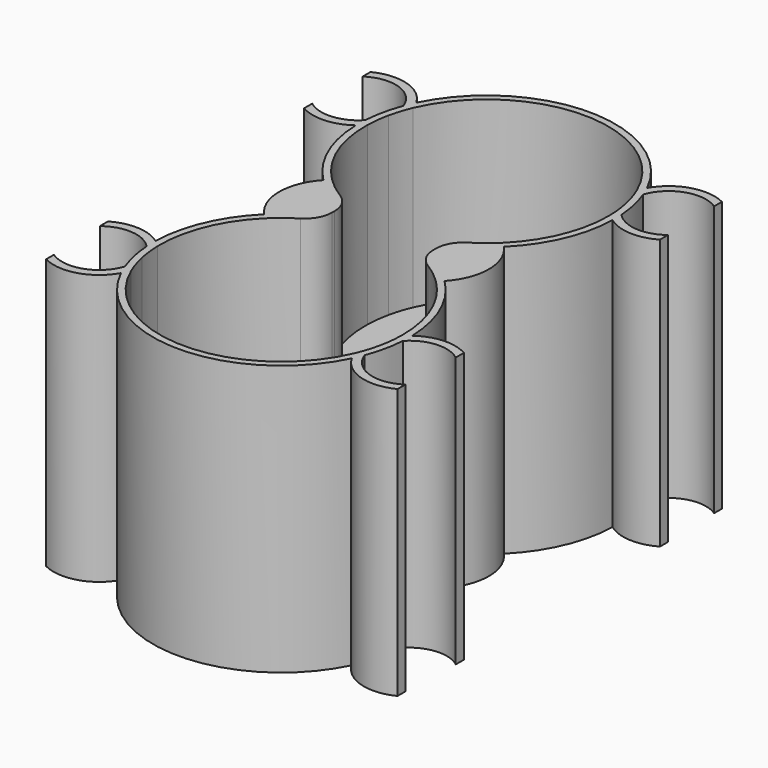
from build123d import *

# Parameters (mm, degrees)
F1_DEPTH = 80
F2_DEPTH = 28
F3_DEPTH = 2
F4_SIZE  = 5
F5_R     = 8


with BuildPart() as f1:
    # F0 (on Top) → F1 (new body)
    with BuildSketch(Plane.XY):
        with BuildLine():
            ThreePointArc((35.9901375525, 38.8426143551), (35.9975343037, 38.4213360355), (36, 38))
            ThreePointArc((36, 38), (30.2985148151, 18.5577779048), (15, 5.2738636561))
            Line((15, 5.2738636561), (15, 3.0858194998))
            ThreePointArc((15, 3.0858194998), (21.2234490436, 6.479130553), (26.7084002829, 10.9692516876))
            ThreePointArc((26.7084002829, 10.9692516876), (34.8800432225, 22.9207896494), (37.9884032406, 37.061267222))
            ThreePointArc((37.9884032406, 37.061267222), (36.9450072331, 37.9022876024), (35.9901375525, 38.8426143551))
        make_face()
        with BuildLine():
            ThreePointArc((35.1791296525, 45.6438757771), (35.7467542283, 42.2625769371), (35.9901375525, 38.8426143551))
            ThreePointArc((35.9901375525, 38.8426143551), (36.9450072331, 37.9022876024), (37.9884032406, 37.061267222))
            ThreePointArc((37.9884032406, 37.061267222), (37.9971006995, 37.5305977968), (38, 38))
            ThreePointArc((38, 38), (37.9804456747, 39.2189119535), (37.9218028237, 40.4365694333))
            ThreePointArc((37.9218028237, 40.4365694333), (36.1957376365, 42.853388078), (35.1791296525, 45.6438757771))
        make_face()
        with BuildLine():
            ThreePointArc((35.5135906601, 51.5197957984), (34.9460846772, 48.604619716), (35.1791296525, 45.6438757771))
            ThreePointArc((35.1791296525, 45.6438757771), (36.1957376365, 42.853388078), (37.9218028237, 40.4365694333))
            ThreePointArc((37.9218028237, 40.4365694333), (37.133525697, 46.0685357598), (35.5135906601, 51.5197957984))
        make_face()
        with BuildLine():
            ThreePointArc((33.0946454877, 52.1684311073), (34.2924124047, 48.9558409747), (35.1791296525, 45.6438757771))
            ThreePointArc((35.1791296525, 45.6438757771), (34.9460846772, 48.604619716), (35.5135906601, 51.5197957984))
            ThreePointArc((35.5135906601, 51.5197957984), (34.8779796603, 53.083982724), (34.1735140679, 54.6183915062))
            ThreePointArc((34.1735140679, 54.6183915062), (33.5732028181, 53.4202191846), (33.0946454877, 52.1684311073))
        make_face()
        with BuildLine():
            ThreePointArc((38, 38), (37.9971006995, 37.5305977968), (37.9884032406, 37.061267222))
            ThreePointArc((37.9884032406, 37.061267222), (45.2139181623, 34.4984199692), (52.669826296, 36.2832689338))
            Line((52.669826296, 36.2832689338), (52.669826296, 39.2874432971))
            ThreePointArc((52.669826296, 39.2874432971), (45.0738077793, 37.0127445593), (37.9218028237, 40.4365694333))
            ThreePointArc((37.9218028237, 40.4365694333), (37.9804456747, 39.2189119535), (38, 38))
        make_face()
        with BuildLine():
            Line((-15, 3.0858194998), (-15, 5.2738636561))
            ThreePointArc((-15, 5.2738636561), (-30.5239870885, 18.9137166473), (-35.9901375525, 38.8426143551))
            ThreePointArc((-35.9901375525, 38.8426143551), (-36.9450072331, 37.9022876024), (-37.9884032406, 37.061267222))
            ThreePointArc((-37.9884032406, 37.061267222), (-34.8800432225, 22.9207896494), (-26.7084002829, 10.9692516876))
            ThreePointArc((-26.7084002829, 10.9692516876), (-21.2234490436, 6.479130553), (-15, 3.0858194998))
        make_face()
        with BuildLine():
            ThreePointArc((26.7084002829, 10.9692516876), (21.2234490436, 6.479130553), (15, 3.0858194998))
            Line((15, 3.0858194998), (15, -3.0858194998))
            ThreePointArc((15, -3.0858194998), (21.2234490436, -6.479130553), (26.7084002829, -10.9692516876))
            ThreePointArc((26.7084002829, -10.9692516876), (31.0440368913, 0), (26.7084002829, 10.9692516876))
        make_face()
        with BuildLine():
            ThreePointArc((-33.0946454877, 52.1684311073), (0, 74), (33.0946454877, 52.1684311073))
            ThreePointArc((33.0946454877, 52.1684311073), (33.5732028181, 53.4202191846), (34.1735140679, 54.6183915062))
            ThreePointArc((34.1735140679, 54.6183915062), (0, 76), (-34.1735140679, 54.6183915062))
            ThreePointArc((-34.1735140679, 54.6183915062), (-33.5732028181, 53.4202191846), (-33.0946454877, 52.1684311073))
        make_face()
        with BuildLine():
            ThreePointArc((34.1735140679, 54.6183915062), (34.8779796603, 53.083982724), (35.5135906601, 51.5197957984))
            ThreePointArc((35.5135906601, 51.5197957984), (42.3857590226, 58.3934543446), (52.0238642089, 57.1361523796))
            Line((52.0238642089, 57.1361523796), (52.0238642089, 60.0250099634))
            ThreePointArc((52.0238642089, 60.0250099634), (42.0149177213, 60.8998521098), (34.1735140679, 54.6183915062))
        make_face()
        with BuildLine():
            ThreePointArc((-37.9884032406, 37.061267222), (-36.9450072331, 37.9022876024), (-35.9901375525, 38.8426143551))
            ThreePointArc((-35.9901375525, 38.8426143551), (-35.7467542312, 42.2625769128), (-35.1791296629, 45.6438757292))
            ThreePointArc((-35.1791296629, 45.6438757292), (-36.1957376479, 42.8533880563), (-37.9218028237, 40.4365694333))
            ThreePointArc((-37.9218028237, 40.4365694333), (-37.9926047072, 38.749658299), (-37.9884032406, 37.061267222))
        make_face()
        with BuildLine():
            Line((-15, -3.0858194998), (-15, 3.0858194998))
            ThreePointArc((-15, 3.0858194998), (-21.2234490436, 6.479130553), (-26.7084002829, 10.9692516876))
            ThreePointArc((-26.7084002829, 10.9692516876), (-31.0440368913, 0), (-26.7084002829, -10.9692516876))
            ThreePointArc((-26.7084002829, -10.9692516876), (-21.2234490436, -6.479130553), (-15, -3.0858194998))
        make_face()
        with BuildLine():
            ThreePointArc((26.7084002829, -10.9692516876), (21.2234490436, -6.479130553), (15, -3.0858194998))
            Line((15, -3.0858194998), (15, -5.2738636561))
            ThreePointArc((15, -5.2738636561), (30.2985148151, -18.5577779048), (36, -38))
            ThreePointArc((36, -38), (35.9975343037, -38.4213360355), (35.9901375525, -38.8426143551))
            ThreePointArc((35.9901375525, -38.8426143551), (36.9450072331, -37.9022876024), (37.9884032406, -37.061267222))
            ThreePointArc((37.9884032406, -37.061267222), (34.8800432225, -22.9207896494), (26.7084002829, -10.9692516876))
        make_face()
        with BuildLine():
            ThreePointArc((-35.1791296629, 45.6438757292), (-34.2924124122, 48.9558409514), (-33.0946454877, 52.1684311073))
            ThreePointArc((-33.0946454877, 52.1684311073), (-33.5732028181, 53.4202191846), (-34.1735140679, 54.6183915062))
            ThreePointArc((-34.1735140679, 54.6183915062), (-34.8779796603, 53.083982724), (-35.5135906601, 51.5197957984))
            ThreePointArc((-35.5135906601, 51.5197957984), (-34.9460846758, 48.6046196915), (-35.1791296629, 45.6438757292))
        make_face()
        with BuildLine():
            ThreePointArc((-37.9218028237, 40.4365694333), (-36.1957376479, 42.8533880563), (-35.1791296629, 45.6438757292))
            ThreePointArc((-35.1791296629, 45.6438757292), (-34.9460846758, 48.6046196915), (-35.5135906601, 51.5197957984))
            ThreePointArc((-35.5135906601, 51.5197957984), (-37.133525697, 46.0685357598), (-37.9218028237, 40.4365694333))
        make_face()
        with BuildLine():
            ThreePointArc((-52.669826296, 36.2832689338), (-45.2139181623, 34.4984199692), (-37.9884032406, 37.061267222))
            ThreePointArc((-37.9884032406, 37.061267222), (-37.9926047072, 38.749658299), (-37.9218028237, 40.4365694333))
            ThreePointArc((-37.9218028237, 40.4365694333), (-45.0738077793, 37.0127445593), (-52.669826296, 39.2874432971))
            Line((-52.669826296, 39.2874432971), (-52.669826296, 36.2832689338))
        make_face()
        with BuildLine():
            Line((-15, -5.2738636561), (-15, -3.0858194998))
            ThreePointArc((-15, -3.0858194998), (-21.2234490436, -6.479130553), (-26.7084002829, -10.9692516876))
            ThreePointArc((-26.7084002829, -10.9692516876), (-34.8800432225, -22.9207896494), (-37.9884032406, -37.061267222))
            ThreePointArc((-37.9884032406, -37.061267222), (-36.9450072331, -37.9022876024), (-35.9901375525, -38.8426143551))
            ThreePointArc((-35.9901375525, -38.8426143551), (-30.5239870885, -18.9137166473), (-15, -5.2738636561))
        make_face()
        with BuildLine():
            ThreePointArc((-35.5135906601, 51.5197957984), (-34.8779796603, 53.083982724), (-34.1735140679, 54.6183915062))
            ThreePointArc((-34.1735140679, 54.6183915062), (-42.0149177213, 60.8998521098), (-52.0238642089, 60.0250099634))
            Line((-52.0238642089, 60.0250099634), (-52.0238642089, 57.1361523796))
            ThreePointArc((-52.0238642089, 57.1361523796), (-42.3857590226, 58.3934543446), (-35.5135906601, 51.5197957984))
        make_face()
        with BuildLine():
            ThreePointArc((52.669826296, -36.2832689338), (45.2139181623, -34.4984199692), (37.9884032406, -37.061267222))
            ThreePointArc((37.9884032406, -37.061267222), (37.9971006995, -37.5305977968), (38, -38))
            ThreePointArc((38, -38), (37.9804456747, -39.2189119535), (37.9218028237, -40.4365694333))
            ThreePointArc((37.9218028237, -40.4365694333), (45.0738077793, -37.0127445593), (52.669826296, -39.2874432971))
            Line((52.669826296, -39.2874432971), (52.669826296, -36.2832689338))
        make_face()
        with BuildLine():
            ThreePointArc((38, -38), (37.9971006995, -37.5305977968), (37.9884032406, -37.061267222))
            ThreePointArc((37.9884032406, -37.061267222), (36.9450072331, -37.9022876024), (35.9901375525, -38.8426143551))
            ThreePointArc((35.9901375525, -38.8426143551), (35.746754198, -42.2625771912), (35.1791295438, -45.6438762771))
            ThreePointArc((35.1791295438, -45.6438762771), (36.1957375172, -42.8533883044), (37.9218028237, -40.4365694333))
            ThreePointArc((37.9218028237, -40.4365694333), (37.9804456747, -39.2189119535), (38, -38))
        make_face()
        with BuildLine():
            ThreePointArc((-35.9901375525, -38.8426143551), (-36.9450072331, -37.9022876024), (-37.9884032406, -37.061267222))
            ThreePointArc((-37.9884032406, -37.061267222), (-37.9926047072, -38.749658299), (-37.9218028237, -40.4365694333))
            ThreePointArc((-37.9218028237, -40.4365694333), (-36.1957375881, -42.8533881697), (-35.1791296084, -45.6438759798))
            ThreePointArc((-35.1791296084, -45.6438759798), (-35.746754216, -42.2625770401), (-35.9901375525, -38.8426143551))
        make_face()
        with BuildLine():
            ThreePointArc((-37.9218028237, -40.4365694333), (-37.9926047072, -38.749658299), (-37.9884032406, -37.061267222))
            ThreePointArc((-37.9884032406, -37.061267222), (-45.2139181623, -34.4984199692), (-52.669826296, -36.2832689338))
            Line((-52.669826296, -36.2832689338), (-52.669826296, -39.2874432971))
            ThreePointArc((-52.669826296, -39.2874432971), (-45.0738077793, -37.0127445593), (-37.9218028237, -40.4365694333))
        make_face()
        with BuildLine():
            ThreePointArc((35.5135906601, -51.5197957984), (37.133525697, -46.0685357598), (37.9218028237, -40.4365694333))
            ThreePointArc((37.9218028237, -40.4365694333), (36.1957375172, -42.8533883044), (35.1791295438, -45.6438762771))
            ThreePointArc((35.1791295438, -45.6438762771), (34.9460846917, -48.6046199714), (35.5135906601, -51.5197957984))
        make_face()
        with BuildLine():
            ThreePointArc((35.5135906601, -51.5197957984), (34.9460846917, -48.6046199714), (35.1791295438, -45.6438762771))
            ThreePointArc((35.1791295438, -45.6438762771), (34.2924123269, -48.9558412184), (33.0946454877, -52.1684311073))
            ThreePointArc((33.0946454877, -52.1684311073), (33.5732028181, -53.4202191846), (34.1735140679, -54.6183915062))
            ThreePointArc((34.1735140679, -54.6183915062), (34.8779796603, -53.083982724), (35.5135906601, -51.5197957984))
        make_face()
        with BuildLine():
            ThreePointArc((-35.1791296084, -45.6438759798), (-36.1957375881, -42.8533881697), (-37.9218028237, -40.4365694333))
            ThreePointArc((-37.9218028237, -40.4365694333), (-37.133525697, -46.0685357598), (-35.5135906601, -51.5197957984))
            ThreePointArc((-35.5135906601, -51.5197957984), (-34.9460846831, -48.6046198195), (-35.1791296084, -45.6438759798))
        make_face()
        with BuildLine():
            ThreePointArc((-33.0946454877, -52.1684311073), (-34.2924123732, -48.9558410735), (-35.1791296084, -45.6438759798))
            ThreePointArc((-35.1791296084, -45.6438759798), (-34.9460846831, -48.6046198195), (-35.5135906601, -51.5197957984))
            ThreePointArc((-35.5135906601, -51.5197957984), (-34.8779796603, -53.083982724), (-34.1735140679, -54.6183915062))
            ThreePointArc((-34.1735140679, -54.6183915062), (-33.5732028181, -53.4202191846), (-33.0946454877, -52.1684311073))
        make_face()
        with BuildLine():
            ThreePointArc((52.0238642089, -57.1361523796), (42.3857590226, -58.3934543446), (35.5135906601, -51.5197957984))
            ThreePointArc((35.5135906601, -51.5197957984), (34.8779796603, -53.083982724), (34.1735140679, -54.6183915062))
            ThreePointArc((34.1735140679, -54.6183915062), (42.0149177213, -60.8998521098), (52.0238642089, -60.0250099634))
            Line((52.0238642089, -60.0250099634), (52.0238642089, -57.1361523796))
        make_face()
        with BuildLine():
            ThreePointArc((34.1735140679, -54.6183915062), (33.5732028181, -53.4202191846), (33.0946454877, -52.1684311073))
            ThreePointArc((33.0946454877, -52.1684311073), (0, -74), (-33.0946454877, -52.1684311073))
            ThreePointArc((-33.0946454877, -52.1684311073), (-33.5732028181, -53.4202191846), (-34.1735140679, -54.6183915062))
            ThreePointArc((-34.1735140679, -54.6183915062), (0, -76), (34.1735140679, -54.6183915062))
        make_face()
        with BuildLine():
            ThreePointArc((-34.1735140679, -54.6183915062), (-34.8779796603, -53.083982724), (-35.5135906601, -51.5197957984))
            ThreePointArc((-35.5135906601, -51.5197957984), (-42.3857590226, -58.3934543446), (-52.0238642089, -57.1361523796))
            Line((-52.0238642089, -57.1361523796), (-52.0238642089, -60.0250099634))
            ThreePointArc((-52.0238642089, -60.0250099634), (-42.0149177213, -60.8998521098), (-34.1735140679, -54.6183915062))
        make_face()
    extrude(amount=F1_DEPTH)

    # F0 (on Top) → F2 (join)
    with BuildSketch(Plane.XY):
        with BuildLine():
            ThreePointArc((15, 5.2738636561), (30.2985148151, 18.5577779048), (36, 38))
            ThreePointArc((36, 38), (35.9975343037, 38.4213360355), (35.9901375525, 38.8426143551))
            ThreePointArc((35.9901375525, 38.8426143551), (35.7467542283, 42.2625769371), (35.1791296525, 45.6438757771))
            ThreePointArc((35.1791296525, 45.6438757771), (34.2924124047, 48.9558409747), (33.0946454877, 52.1684311073))
            ThreePointArc((33.0946454877, 52.1684311073), (0, 74), (-33.0946454877, 52.1684311073))
            ThreePointArc((-33.0946454877, 52.1684311073), (-34.2924124122, 48.9558409514), (-35.1791296629, 45.6438757292))
            ThreePointArc((-35.1791296629, 45.6438757292), (-35.7467542312, 42.2625769128), (-35.9901375525, 38.8426143551))
            ThreePointArc((-35.9901375525, 38.8426143551), (-30.5239870885, 18.9137166473), (-15, 5.2738636561))
            Line((-15, 5.2738636561), (-15, 50))
            Line((-15, 50), (15, 50))
            Line((15, 50), (15, 5.2738636561))
        make_face()
        with BuildLine():
            ThreePointArc((36, -38), (30.2985148151, -18.5577779048), (15, -5.2738636561))
            Line((15, -5.2738636561), (15, -50))
            Line((15, -50), (-15, -50))
            Line((-15, -50), (-15, -5.2738636561))
            ThreePointArc((-15, -5.2738636561), (-30.5239870885, -18.9137166473), (-35.9901375525, -38.8426143551))
            ThreePointArc((-35.9901375525, -38.8426143551), (-35.746754216, -42.2625770401), (-35.1791296084, -45.6438759798))
            ThreePointArc((-35.1791296084, -45.6438759798), (-34.2924123732, -48.9558410735), (-33.0946454877, -52.1684311073))
            ThreePointArc((-33.0946454877, -52.1684311073), (0, -74), (33.0946454877, -52.1684311073))
            ThreePointArc((33.0946454877, -52.1684311073), (34.2924123269, -48.9558412184), (35.1791295438, -45.6438762771))
            ThreePointArc((35.1791295438, -45.6438762771), (35.746754198, -42.2625771912), (35.9901375525, -38.8426143551))
            ThreePointArc((35.9901375525, -38.8426143551), (35.9975343037, -38.4213360355), (36, -38))
        make_face()
    extrude(amount=F2_DEPTH)

    # F0 (on Top) → F3 (join)
    with BuildSketch(Plane.XY):
        with BuildLine():
            ThreePointArc((-15, 5.2738636561), (0, 2), (15, 5.2738636561))
            Line((15, 5.2738636561), (15, 50))
            Line((15, 50), (-15, 50))
            Line((-15, 50), (-15, 5.2738636561))
        make_face()
        with BuildLine():
            Line((15, -50), (15, -5.2738636561))
            ThreePointArc((15, -5.2738636561), (0, -2), (-15, -5.2738636561))
            Line((-15, -5.2738636561), (-15, -50))
            Line((-15, -50), (15, -50))
        make_face()
        with BuildLine():
            ThreePointArc((0, 0), (-7.6570601732, 0.7794488286), (-15, 3.0858194998))
            Line((-15, 3.0858194998), (-15, -3.0858194998))
            ThreePointArc((-15, -3.0858194998), (-7.6570601732, -0.7794488286), (0, 0))
        make_face()
        with BuildLine():
            Line((15, 3.0858194998), (15, 5.2738636561))
            ThreePointArc((15, 5.2738636561), (0, 2), (-15, 5.2738636561))
            Line((-15, 5.2738636561), (-15, 3.0858194998))
            ThreePointArc((-15, 3.0858194998), (-7.6570601732, 0.7794488286), (0, 0))
            ThreePointArc((0, 0), (7.6570601732, 0.7794488286), (15, 3.0858194998))
        make_face()
        with BuildLine():
            ThreePointArc((15, -3.0858194998), (7.6570601732, -0.7794488286), (0, 0))
            ThreePointArc((0, 0), (-7.6570601732, -0.7794488286), (-15, -3.0858194998))
            Line((-15, -3.0858194998), (-15, -5.2738636561))
            ThreePointArc((-15, -5.2738636561), (0, -2), (15, -5.2738636561))
            Line((15, -5.2738636561), (15, -3.0858194998))
        make_face()
        with BuildLine():
            Line((15, -3.0858194998), (15, 3.0858194998))
            ThreePointArc((15, 3.0858194998), (7.6570601732, 0.7794488286), (0, 0))
            ThreePointArc((0, 0), (7.6570601732, -0.7794488286), (15, -3.0858194998))
        make_face()
    extrude(amount=F3_DEPTH)

    # F4
    f4_edges = [f1.edges().sort_by_distance(p)[0] for p in [
        (0, 50, 2),
        (-15, 0, 2),
        (0, -50, 2),
        (15, 0, 2),
    ]]
    chamfer(f4_edges, length=F4_SIZE)

    # F5
    f5_edges = [f1.edges().sort_by_distance(p)[0] for p in [
        (-15, -5.273864, 54),
        (-15, 5.273864, 54),
        (15, -5.273864, 54),
        (15, 5.273864, 54),
    ]]
    fillet(f5_edges, radius=F5_R)


solid = f1.part
